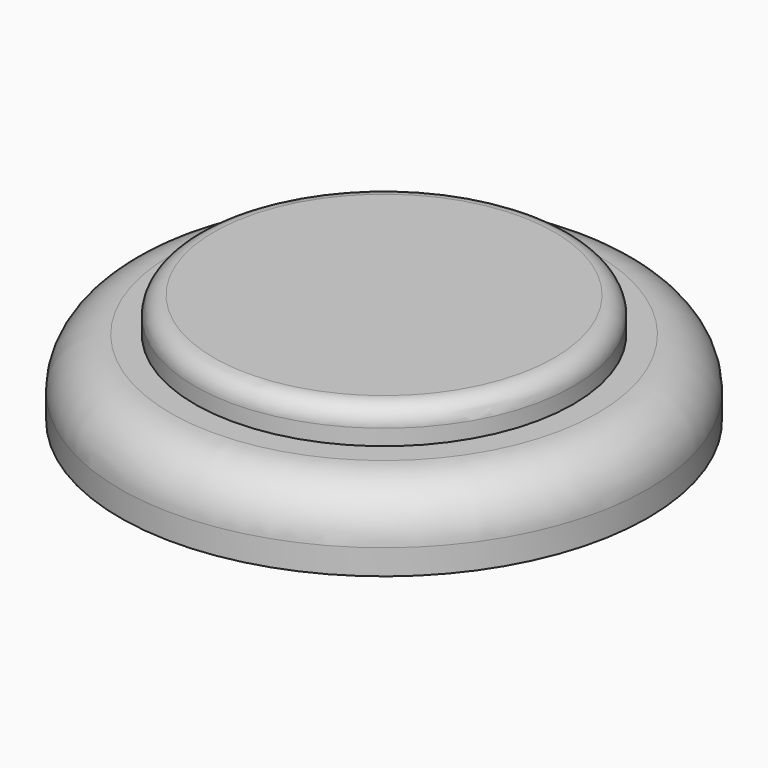
from build123d import *

# Parameters (mm, degrees)
F0_R     = 30
F1_DEPTH = 17.5
F0_R_2   = 41.85
F0_R_3   = 40.25
F2_DEPTH = 12
F3_DEPTH = 0.15
F4_R     = 3
F5_R     = 8


with BuildPart() as f1:
    # F0 (on Top) → F1 (new body)
    with BuildSketch(Plane.XY):
        Circle(F0_R)
    extrude(amount=F1_DEPTH)

    # F0 (on Top) → F2 (join)
    with BuildSketch(Plane.XY):
        Circle(F0_R_2)
        Circle(F0_R_3, mode=Mode.SUBTRACT)
        Circle(F0_R_3)
        Circle(F0_R, mode=Mode.SUBTRACT)
    extrude(amount=F2_DEPTH)

    # F0 (on Top) → F3 (cut)
    with BuildSketch(Plane.XY):
        Circle(F0_R_3)
        Circle(F0_R, mode=Mode.SUBTRACT)
        Circle(F0_R)
    extrude(amount=F3_DEPTH, mode=Mode.SUBTRACT)

    # F4
    f4_edges = [f1.edges().sort_by_distance(p)[0] for p in [
        (-30, 0, 17.5),
    ]]
    fillet(f4_edges, radius=F4_R)

    # F5
    f5_edges = [f1.edges().sort_by_distance(p)[0] for p in [
        (-41.85, 0, 12),
    ]]
    fillet(f5_edges, radius=F5_R)


solid = f1.part
